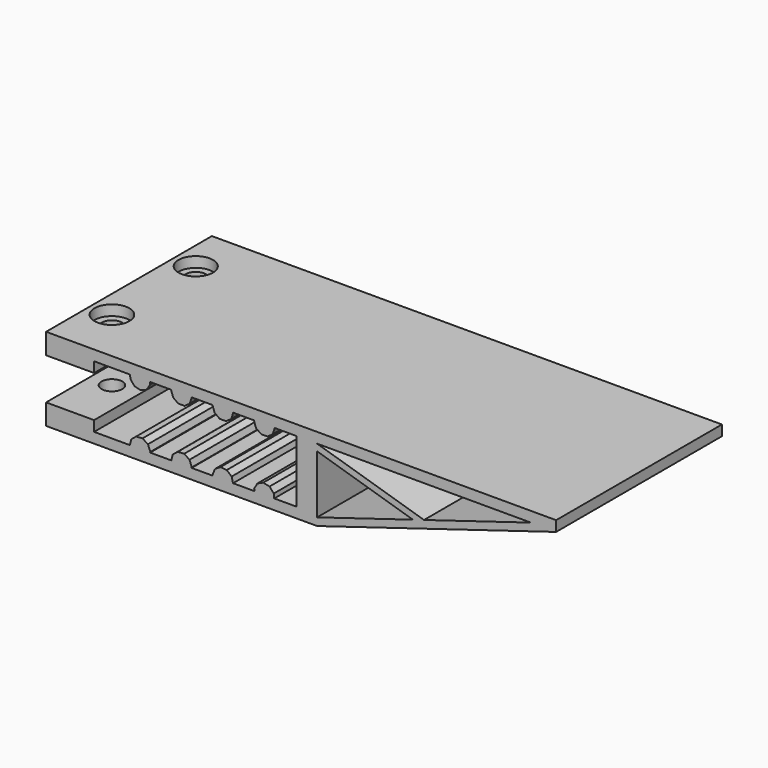
from build123d import *

# Parameters (mm, degrees)
F1_DEPTH = 50
F3_D     = 5
F3_DEPTH = 30
F4_R     = 4.159464
F4_R_2   = 2.5
F4_R_3   = 4.212355
F5_DEPTH = 2.5


with BuildPart() as f1:
    # F0 (on Front) → F1 (new body)
    with BuildSketch(Plane.XZ):
        Polygon((-74.577573, 9.925295), (-62.995659, 9.925295), (-62.995659, 12.425295), (-62.995659, 14.925295), (-74.577573, 14.925295), align=None)
        Polygon((-62.995659, 29.925295), (-74.577573, 29.925295), (-74.577573, 24.925295), (-62.995659, 24.925295), (-62.995659, 27.425295), align=None)
        Polygon((-49.536098, 27.425295), (-54.305424, 27.425295), (-54.23216, 26.4727), (-53.230801, 25.296023), (-51.729051, 24.932656), (-50.300528, 25.521392), (-49.490879, 26.837354), align=None)
        Polygon((-14.193381, 29.925295), (-62.995659, 29.925295), (-62.995659, 27.425295), (-54.305424, 27.425295), (-54.350643, 28.013235), (-53.540994, 29.329197), (-52.112471, 29.917933), (-50.610722, 29.554566), (-49.609363, 28.37789), (-49.536098, 27.425295), (-44.420761, 27.425295), (-43.943304, 28.894758), (-42.693304, 29.802936), (-41.148219, 29.802936), (-39.898219, 28.894758), (-39.420761, 27.425295), (-34.420761, 27.425295), (-33.943304, 28.894758), (-32.693304, 29.802936), (-31.148219, 29.802936), (-29.898219, 28.894758), (-29.420761, 27.425295), (-24.420761, 27.425295), (-23.943304, 28.894758), (-22.693304, 29.802936), (-21.148219, 29.802936), (-19.898219, 28.894758), (-19.420761, 27.425295), (-14.193381, 27.425295), align=None)
        Polygon((-54.350643, 28.013235), (-54.305424, 27.425295), (-49.536098, 27.425295), (-49.609363, 28.37789), (-50.610722, 29.554566), (-52.112471, 29.917933), (-53.540994, 29.329197), align=None)
        Polygon((-43.943304, 28.894758), (-44.420761, 27.425295), (-39.420761, 27.425295), (-39.898219, 28.894758), (-41.148219, 29.802936), (-42.693304, 29.802936), align=None)
        Polygon((-39.420761, 27.425295), (-44.420761, 27.425295), (-43.943304, 25.955832), (-42.693304, 25.047653), (-41.148219, 25.047653), (-39.898219, 25.955832), align=None)
        Polygon((-29.898219, 25.955832), (-29.420761, 27.425295), (-34.420761, 27.425295), (-33.943304, 25.955832), (-32.693304, 25.047653), (-31.148219, 25.047653), align=None)
        Polygon((-34.420761, 27.425295), (-29.420761, 27.425295), (-29.898219, 28.894758), (-31.148219, 29.802936), (-32.693304, 29.802936), (-33.943304, 28.894758), align=None)
        Polygon((-24.420761, 27.425295), (-19.420761, 27.425295), (-19.898219, 28.894758), (-21.148219, 29.802936), (-22.693304, 29.802936), (-23.943304, 28.894758), align=None)
        Polygon((-19.898219, 25.955832), (-19.420761, 27.425295), (-24.420761, 27.425295), (-23.943304, 25.955832), (-22.693304, 25.047653), (-21.148219, 25.047653), align=None)
        Polygon((-54.036331, 13.757347), (-54.3733, 12.425295), (-49.468223, 12.425295), (-49.426269, 12.591143), (-50.000157, 14.025695), (-51.307652, 14.848948), (-52.849333, 14.746448), align=None)
        Polygon((-49.468223, 12.425295), (-54.3733, 12.425295), (-54.415254, 12.259447), (-53.841365, 10.824895), (-52.533871, 10.001641), (-50.99219, 10.104141), (-49.805191, 11.093243), align=None)
        Polygon((-44.383395, 12.425295), (-39.458127, 12.425295), (-39.42397, 12.551915), (-39.97524, 13.99531), (-41.269633, 14.839012), (-42.812735, 14.760757), (-44.015134, 13.790434), align=None)
        Polygon((-39.826389, 11.060155), (-39.458127, 12.425295), (-44.383395, 12.425295), (-44.417553, 12.298674), (-43.866282, 10.85528), (-42.571889, 10.011577), (-41.028787, 10.089833), align=None)
        Polygon((-34.370867, 12.425295), (-29.470655, 12.425295), (-29.799939, 13.748969), (-30.983016, 14.742758), (-32.52428, 14.851354), (-33.83502, 14.033279), (-34.414579, 12.601008), align=None)
        Polygon((-29.426944, 12.249582), (-29.470655, 12.425295), (-34.370867, 12.425295), (-34.041583, 11.10162), (-32.858506, 10.107832), (-31.317242, 9.999235), (-30.006502, 10.817311), align=None)
        Polygon((-24.31116, 12.425295), (-19.530363, 12.425295), (-19.635516, 13.439028), (-20.667817, 14.588655), (-22.1787, 14.911953), (-23.591059, 14.285431), (-24.365421, 12.9484), align=None)
        Polygon((-19.476102, 11.902189), (-19.530363, 12.425295), (-24.31116, 12.425295), (-24.206006, 11.411561), (-23.173706, 10.261934), (-21.662823, 9.938637), (-20.250464, 10.565158), align=None)
        Polygon((-14.193381, 9.925295), (-14.193381, 12.425295), (-19.530363, 12.425295), (-19.476102, 11.902189), (-20.250464, 10.565158), (-21.662823, 9.938637), (-23.173706, 10.261934), (-24.206006, 11.411561), (-24.31116, 12.425295), (-29.470655, 12.425295), (-29.426944, 12.249582), (-30.006502, 10.817311), (-31.317242, 9.999235), (-32.858506, 10.107832), (-34.041583, 11.10162), (-34.370867, 12.425295), (-39.458127, 12.425295), (-39.826389, 11.060155), (-41.028787, 10.089833), (-42.571889, 10.011577), (-43.866282, 10.85528), (-44.417553, 12.298674), (-44.383395, 12.425295), (-49.468223, 12.425295), (-49.805191, 11.093243), (-50.99219, 10.104141), (-52.533871, 10.001641), (-53.841365, 10.824895), (-54.415254, 12.259447), (-54.3733, 12.425295), (-62.995659, 12.425295), (-62.995659, 9.925295), align=None)
        Polygon((-9.193381, 29.925295), (-14.193381, 29.925295), (-14.193381, 27.425295), (-14.193381, 12.425295), (-14.193381, 9.925295), (-9.193381, 9.925295), (-9.193381, 11.774359), (-9.193381, 25.814013), (-9.193381, 27.425295), align=None)
        Polygon((48.476379, 29.925295), (-9.193381, 29.925295), (-9.193381, 27.425295), (42.382944, 27.425295), (48.476379, 27.425295), align=None)
        Polygon((16.594782, 19.599827), (-9.193381, 27.425295), (-9.193381, 25.814013), (13.939861, 18.794186), align=None)
        Polygon((48.476379, 27.425295), (42.382944, 27.425295), (16.594782, 19.599827), (13.939861, 18.794186), (-9.193381, 11.774359), (-9.193381, 9.925295), align=None)
    extrude(amount=F1_DEPTH)

    # F3
    with Locations(Plane.XY.offset(29.925295)):
        with Locations((-69.248043, -11.523538), (-69.248043, -36.80516)):
            Hole(F3_D / 2, depth=F3_DEPTH)

    # F4 (on face) → F5 (cut)
    with BuildSketch(Plane.XY.offset(29.925295)):
        with Locations((-69.248043, -11.523538)):
            Circle(F4_R)
        with Locations((-69.248043, -11.523538)):
            Circle(F4_R_2, mode=Mode.SUBTRACT)
        with Locations((-69.248043, -36.80516)):
            Circle(F4_R_3)
        with Locations((-69.248043, -36.80516)):
            Circle(F4_R_2, mode=Mode.SUBTRACT)
    extrude(amount=-F5_DEPTH, mode=Mode.SUBTRACT)


solid = f1.part
